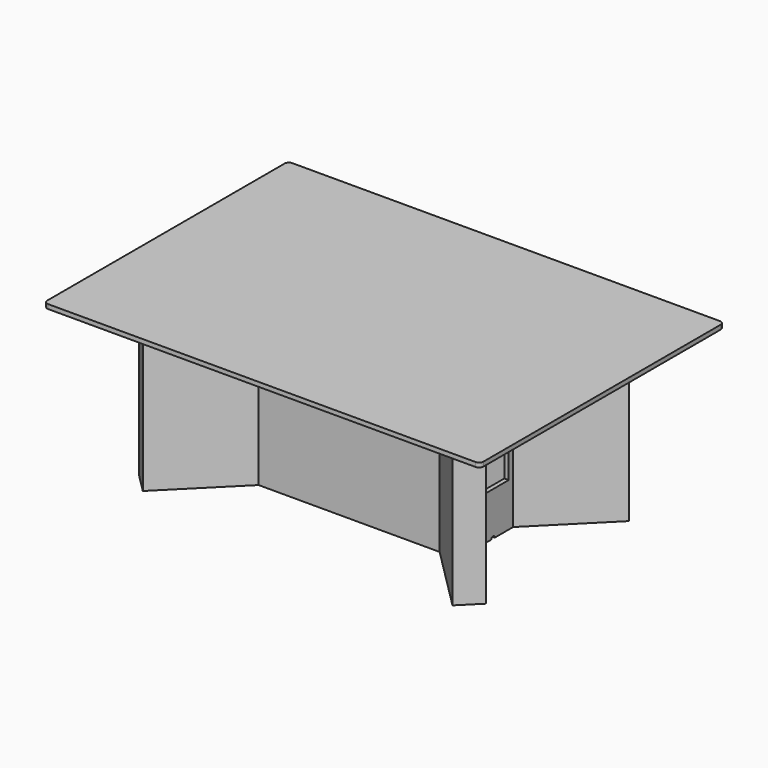
from build123d import *

# Parameters (mm, degrees)
F2_DEPTH  = 2
F5_DEPTH  = 73
F6_W      = 123.029438
F6_H      = 80
F7_DEPTH  = 2
F9_DEPTH  = 2
F10_W     = 18
F10_H     = 30
F11_DEPTH = 150.001
F12_W     = 12.2
F12_H     = 5.2
F13_DEPTH = 150.001
F15_DEPTH = 150.001


with BuildPart() as f2:
    # F1 (on offset) → F2 (new body)
    with BuildSketch(Plane.XY.offset(73)):
        with BuildLine():
            Line((98, 70), (-98, 70))
            ThreePointArc((-98, 70), (-99.414214, 69.414214), (-100, 68))
            Line((-100, 68), (-100, -68))
            ThreePointArc((-100, -68), (-99.414214, -69.414214), (-98, -70))
            Line((-98, -70), (98, -70))
            ThreePointArc((98, -70), (99.414214, -69.414214), (100, -68))
            Line((100, -68), (100, 68))
            ThreePointArc((100, 68), (99.414214, 69.414214), (98, 70))
        make_face()
    extrude(amount=F2_DEPTH)


with BuildPart() as f5:
    # F4 (on Top) → F5 (new body, through all)
    with BuildSketch(Plane.XY):
        Polygon((41.514719, 20), (-41.514719, 20), (-71.008622, 49.493903), (-79.493903, 41.008622), (-50, 11.514719), (-50, -11.514719), (-79.493903, -41.008622), (-71.008622, -49.493903), (-41.514719, -20), (41.514719, -20), (71.008622, -49.493903), (79.493903, -41.008622), (50, -11.514719), (50, 11.514719), (79.493903, 41.008622), (71.008622, 49.493903), align=None)
        Polygon((-76.665476, 41.008622), (-71.008622, 46.665476), (-42.343146, 18), (42.343146, 18), (71.008622, 46.665476), (76.665476, 41.008622), (48, 12.343146), (48, -12.343146), (76.665476, -41.008622), (71.008622, -46.665476), (42.343146, -18), (-42.343146, -18), (-71.008622, -46.665476), (-76.665476, -41.008622), (-48, -12.343146), (-48, 12.343146), align=None, mode=Mode.SUBTRACT)
    extrude(amount=F5_DEPTH)


with BuildPart() as f7:
    # F6 (on offset) → F7 (new body)
    with BuildSketch(Plane.XY.offset(73)):
        Rectangle(F6_W, F6_H)
    extrude(amount=-F7_DEPTH)


with BuildPart() as f5_1:
    add(f5.part)

    # F8: cut F7
    add(f7.part, mode=Mode.SUBTRACT)

    # F10 (on face) → F11 (cut, through all)
    with BuildSketch(Plane(origin=(-50, 0, 0), x_dir=(0, -1, 0), z_dir=(-1, 0, 0))):
        with Locations((0, 35)):
            Rectangle(F10_W, F10_H)
    extrude(amount=-F11_DEPTH, mode=Mode.SUBTRACT)

    # F12 (on face) → F13 (cut, through all)
    with BuildSketch(Plane.YZ.offset(50)):
        with Locations((0, 62.4)):
            Rectangle(F12_W, F12_H)
    extrude(amount=-F13_DEPTH, mode=Mode.SUBTRACT)

    # F14 (on face) → F15 (cut, through all)
    with BuildSketch(Plane.YZ.offset(50)):
        with BuildLine():
            ThreePointArc((1, 0), (0, 1), (-1, 0))
            Line((-1, 0), (1, 0))
        make_face()
    extrude(amount=-F15_DEPTH, mode=Mode.SUBTRACT)


with BuildPart() as f9:
    # F6 (on offset) → F9 (new body, through all)
    with BuildSketch(Plane.XY.offset(73)):
        Rectangle(F6_W, F6_H)
    extrude(amount=-F9_DEPTH)


solid = Compound([f2.part, f5_1.part, f9.part])
